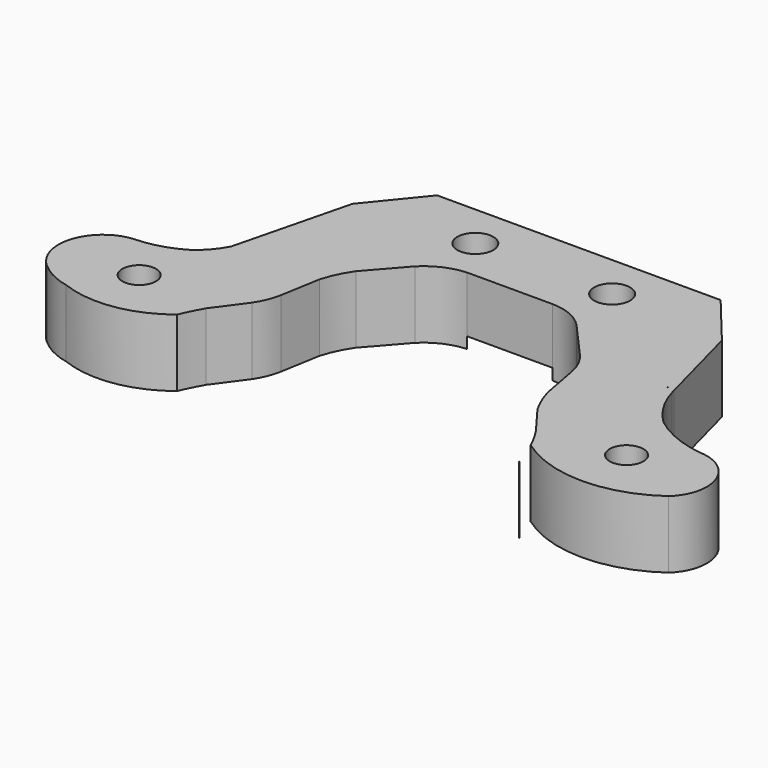
from build123d import *

# Parameters (mm, degrees)
F0_R     = 1.5
F1_DEPTH = 6
F2_W     = 29.1895474304
F2_H     = 8.1068262217
F3_DEPTH = 1
F4_R     = 1.6
F5_DEPTH = 25


with BuildPart() as f1:
    # F0 (on Top) → F1 (new body)
    with BuildSketch(Plane.XY):
        with BuildLine():
            Line((-10, 26), (-35.2495634258, 26))
            Line((-35.2495634258, 26), (-39.057527268, 21.3184167468))
            Line((-39.057527268, 21.3184167468), (-41.6304210197, 11.0364185063))
            ThreePointArc((-41.6304210197, 11.0364185063), (-42.4311486923, 9.8573407468), (-43.4759554631, 8.8879244376))
            ThreePointArc((-43.4759554631, 8.8879244376), (-45.51650016, 7.9985812964), (-47.7191541257, 7.6775370778))
            ThreePointArc((-47.7191541257, 7.6775370778), (-50.9003861294, 5.2453676624), (-50.3167290744, 1.2836723726))
            ThreePointArc((-50.3167290744, 1.2836723726), (-50.0192314636, 0.9660998742), (-49.6996038757, 0.6708113287))
            ThreePointArc((-49.6996038757, 0.6708113287), (-48.4319460234, -0.1659790532), (-46.995387251, -0.6594093592))
            ThreePointArc((-46.995387251, -0.6594093592), (-42.402871488, -1.1752804225), (-38.1662136975, 0.6708113287))
            ThreePointArc((-38.1662136975, 0.6708113287), (-37.6947830716, 1.6839626336), (-37.1705197268, 2.6708113287))
            Line((-37.1705197268, 2.6708113287), (-35.2077888071, 5.3416226573))
            ThreePointArc((-35.2077888071, 5.3416226573), (-34.6739031487, 6.3562206362), (-34.3466389772, 7.4550113884))
            Line((-34.3466389772, 7.4550113884), (-33.7362494579, 10.9917901425))
            ThreePointArc((-33.7362494579, 10.9917901425), (-33.2424472917, 12.3157626035), (-32.5319427601, 13.5372072267))
            Line((-32.5319427601, 13.5372072267), (-29.7846236034, 16.6751274652))
            ThreePointArc((-29.7846236034, 16.6751274652), (-28.2204332697, 17.7634209708), (-26.3712517917, 18.2234231624))
            Line((-26.3712517917, 18.2234231624), (-18.7730714679, 18.2234231624))
            Line((-18.7730714679, 18.2234231624), (-18.771239616, 18.2234231624))
            ThreePointArc((-18.771239616, 18.2234231624), (-16.9678088596, 17.8481072738), (-15.4634089727, 16.7850901103))
            Line((-15.4634089727, 16.7850901103), (-12.4487311379, 13.3968793328))
            ThreePointArc((-12.4487311379, 13.3968793328), (-11.7807395516, 12.3925325218), (-11.3797099055, 11.2549471408))
            ThreePointArc((-11.3797099055, 11.2549471408), (-11.3495947952, 11.1058740041), (-11.3241430986, 10.9559342458))
            Line((-11.3241430986, 10.9559342458), (-10.7032877635, 7.6150233392))
            ThreePointArc((-10.7032877635, 7.6150233392), (-10.2604433533, 6.3680457187), (-9.6682160293, 5.1846898321))
            Line((-9.6682160293, 5.1846898321), (-7.7281862056, 2.592344916))
            Line((-7.7281862056, 2.592344916), (-7.7238523924, 2.5865539027))
            ThreePointArc((-7.7238523924, 2.5865539027), (-7.1542376439, 1.6475817928), (-6.6521927802, 0.6708113287))
            ThreePointArc((-6.6521927802, 0.6708113287), (-0.5155238845, -1.3021562504), (5.6211450111, 0.6708113287))
            ThreePointArc((5.6211450111, 0.6708113287), (6.6033357025, 4.7097738492), (3.25, 7.1660019457))
            ThreePointArc((3.25, 7.1660019457), (0.6744644557, 7.8294460888), (-1.6262272263, 9.163747125))
            ThreePointArc((-1.6262272263, 9.163747125), (-3.0431070459, 10.948065824), (-3.9476649338, 13.0392656399))
            ThreePointArc((-3.9476649338, 13.0392656399), (-3.9889402222, 13.1896618294), (-4.0275107165, 13.3407743047))
            Line((-4.0275107165, 13.3407743047), (-6.1401568189, 21.3184167468))
            Line((-6.1401568189, 21.3184167468), (-10, 26))
        make_face()
        with Locations((-43.9329087866, 3.6708113287)):
            Circle(F0_R, mode=Mode.SUBTRACT)
        with Locations((-0.5155238845, 3.6708113287)):
            Circle(F0_R, mode=Mode.SUBTRACT)
        with BuildLine():
            Line((6.605921809, 3.5830009729), (6.6033259315, 3.6708113287))
            Line((6.6033259315, 3.6708113287), (6.6105232638, 3.6708113287))
            ThreePointArc((6.6105232638, 3.6708113287), (6.6085095309, 3.6268911116), (6.605921809, 3.5830009729))
        make_face(mode=Mode.SUBTRACT)
        with BuildLine():
            ThreePointArc((-4.5809692163, 12.9828511217), (-4.6550041334, 13.3393767265), (-4.7139979165, 13.6986974876))
            Line((-4.7139979165, 13.6986974876), (-4.5809692163, 12.9828511217))
        make_face(mode=Mode.SUBTRACT)
        with BuildLine():
            Line((-3.9476649338, 13.0392656399), (-4.0275107165, 13.3407743047))
            ThreePointArc((-4.0275107165, 13.3407743047), (-3.9889402222, 13.1896618294), (-3.9476649338, 13.0392656399))
        make_face()
        with BuildLine():
            ThreePointArc((-49.6996038757, 0.6708113287), (-50.0192314636, 0.9660998742), (-50.3167290744, 1.2836723726))
            ThreePointArc((-50.3167290744, 1.2836723726), (-50.0251028728, 0.9601876131), (-49.6996038757, 0.6708113287))
        make_face()
        with BuildLine():
            Line((-11.3797099055, 11.2549471408), (-11.3241430986, 10.9559342458))
            ThreePointArc((-11.3241430986, 10.9559342458), (-11.3495947952, 11.1058740041), (-11.3797099055, 11.2549471408))
        make_face()
    extrude(amount=F1_DEPTH)

    # F2 (on face) → F3 (cut)
    with BuildSketch(Plane(origin=(0, 0, 0), x_dir=(1, 0, 0), z_dir=(0, 0, -1))):
        with Locations((-22.5587716317, -22.2768362732)):
            Rectangle(F2_W, F2_H)
    extrude(amount=-F3_DEPTH, mode=Mode.SUBTRACT)

    # F4 (on face) → F5 (cut)
    with BuildSketch(Plane(origin=(0, 0, 1), x_dir=(1, 0, 0), z_dir=(0, 0, -1))):
        with Locations((-28.6535453469, -22)):
            Circle(F4_R)
        with Locations((-16.4639979165, -22)):
            Circle(F4_R)
    extrude(amount=-F5_DEPTH, mode=Mode.SUBTRACT)


with BuildPart() as f1b:
    # F0 (on Top) → F1, piece 2 (new body)
    with BuildSketch(Plane.XY):
        with BuildLine():
            ThreePointArc((-5.7375235555, -1.796991188), (-5.7584344051, -1.7222672905), (-5.7797171889, -1.6476484751))
            ThreePointArc((-5.7797171889, -1.6476484751), (-5.7594808885, -1.7225629523), (-5.7375235555, -1.796991188))
        make_face()
    extrude(amount=F1_DEPTH)


solid = Compound([f1.part, f1b.part])
